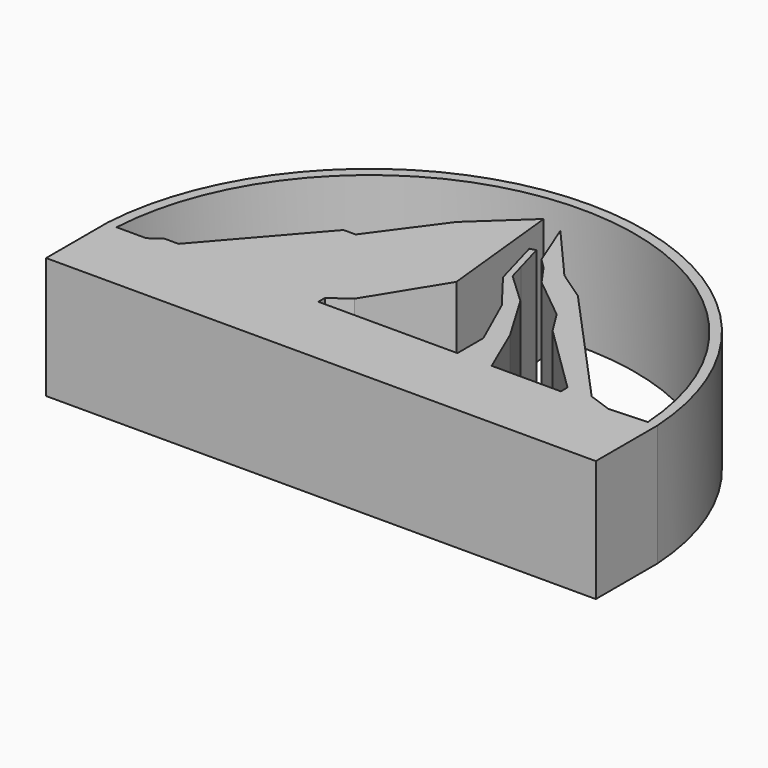
from build123d import *

# Parameters (mm, degrees)
F1_DEPTH = 2


with BuildPart() as f1:
    # F0 (on Top) → F1 (new body)
    with BuildSketch(Plane.XY):
        with BuildLine():
            Line((4.733724, -4.386716), (4.733724, -3.120114))
            ThreePointArc((4.733724, -3.120114), (0.208889, 1.143126), (-4.315945, -3.120114))
            Line((-4.315945, -3.120114), (-4.315945, -4.386716))
            Line((-4.315945, -4.386716), (4.733724, -4.386716))
        make_face()
        with BuildLine():
            ThreePointArc((-4.14372, -3.151427), (0.201964, 0.973099), (4.577155, -3.120114))
            Line((4.577155, -3.120114), (3.955484, -3.151427))
            Line((3.955484, -3.151427), (3.568369, -3.014677))
            Line((3.568369, -3.014677), (1.677037, -0.935318))
            Line((1.677037, -0.935318), (1.190378, -0.603505))
            Line((1.190378, -0.603505), (0.371907, 0.336631))
            Line((0.371907, 0.336631), (0.679859, -0.437599))
            Line((0.679859, -0.437599), (0.847505, -0.603505))
            Line((0.847505, -0.603505), (1.079774, -0.935318))
            Line((1.079774, -0.935318), (1.787641, -1.51046))
            Line((1.787641, -1.51046), (2.030971, -1.897575))
            Line((2.030971, -1.897575), (3.170194, -3.014677))
            Line((3.170194, -3.014677), (3.170194, -3.151427))
            Line((3.170194, -3.151427), (2.030971, -3.151427))
            Line((2.030971, -3.151427), (1.677037, -2.328931))
            Line((1.677037, -2.328931), (1.190378, -1.51046))
            Line((1.190378, -1.51046), (0.679859, -1.03181))
            Line((0.679859, -1.03181), (0.604176, -0.761511))
            Line((0.604176, -0.761511), (0.468727, -0.277765))
            Line((0.468727, -0.277765), (0.371907, -0.304874))
            Line((0.371907, -0.304874), (0.604176, -1.134406))
            Line((0.604176, -1.134406), (1.079774, -1.753789))
            Line((1.079774, -1.753789), (1.466889, -2.616502))
            Line((1.466889, -2.616502), (1.466889, -3.151427))
            Line((1.466889, -3.151427), (-0.822619, -3.151427))
            Line((-0.822619, -3.151427), (-0.822619, -3.014677))
            Line((-0.822619, -3.014677), (-0.512927, -2.793469))
            Line((-0.512927, -2.793469), (0.217061, -1.610004))
            Line((0.217061, -1.610004), (0, 0.458295))
            Line((0, 0.458295), (-0.822619, -0.304874))
            Line((-0.822619, -0.304874), (-1.618969, -1.388795))
            Line((-1.618969, -1.388795), (-1.818057, -1.388795))
            Line((-1.818057, -1.388795), (-3.233791, -3.014677))
            Line((-3.233791, -3.014677), (-3.47712, -3.014677))
            Line((-3.47712, -3.014677), (-3.654087, -3.151427))
            Line((-3.654087, -3.151427), (-4.14372, -3.151427))
        make_face(mode=Mode.SUBTRACT)
    extrude(amount=F1_DEPTH)


solid = f1.part
